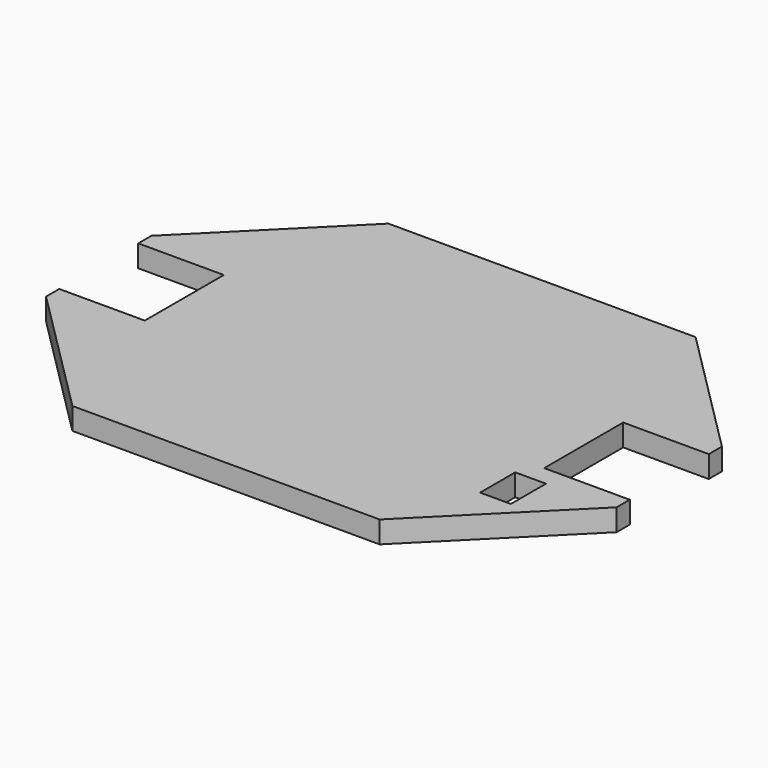
from build123d import *

# Parameters (mm, degrees)
SKETCH_W        = 130
SKETCH_H        = 90
PAD_DEPTH       = 5
CHAMFER_SIZE    = 30
SKETCH001_W     = 19.5
SKETCH001_H     = 22.5
POCKET_DEPTH    = 5
SKETCH002_W     = 7
SKETCH002_H     = 10
POCKET001_DEPTH = 5


with BuildPart() as part:
    # Sketch → Pad (new body)
    with BuildSketch(Plane.XY):
        Rectangle(SKETCH_W, SKETCH_H)
    extrude(amount=PAD_DEPTH)

    # Chamfer
    chamfer_edges = [part.edges().sort_by_distance(p)[0] for p in [
        (-65, -45, 2.5),
        (65, -45, 2.5),
        (65, 45, 2.5),
        (-65, 45, 2.5),
    ]]
    chamfer(chamfer_edges, length=CHAMFER_SIZE)

    # Sketch001 (on Face5 of Chamfer) → Pocket (cut)
    with BuildSketch(Plane.XY.offset(5)):
        with Locations((55.25, 0)):
            Rectangle(SKETCH001_W, SKETCH001_H)
        with Locations((-55.25, 0)):
            Rectangle(SKETCH001_W, SKETCH001_H)
    extrude(amount=-POCKET_DEPTH, mode=Mode.SUBTRACT)

    # Sketch002 (on Face5 of Pocket) → Pocket001 (cut)
    with BuildSketch(Plane.XY.offset(5)):
        with Locations((46, -20.744505)):
            Rectangle(SKETCH002_W, SKETCH002_H)
    extrude(amount=-POCKET001_DEPTH, mode=Mode.SUBTRACT)


solid = part.part
